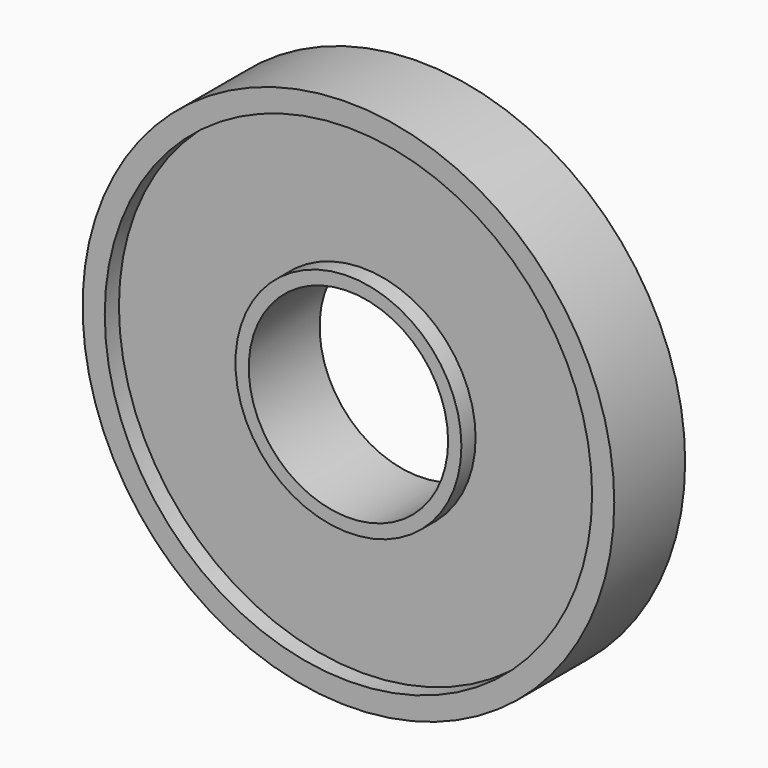
from build123d import *

# Parameters (mm, degrees)
F0_R      = 30
F1_DEPTH  = 10
F2_R      = 27.5
F3_DEPTH  = 2
F4_R      = 27.5
F5_DEPTH  = 2
F6_R      = 12.75
F7_DEPTH  = 2
F8_R      = 12.75
F9_DEPTH  = 2
F10_R     = 11.25
F11_DEPTH = 10.001


with BuildPart() as f1:
    # F0 (on Front) → F1 (new body)
    with BuildSketch(Plane.XZ):
        with Locations((-21.965394, 3.416839)):
            Circle(F0_R)
    extrude(amount=F1_DEPTH)

    # F2 (on face) → F3 (cut)
    with BuildSketch(Plane.XZ.offset(10)):
        with Locations((-21.965394, 3.416839)):
            Circle(F2_R)
    extrude(amount=-F3_DEPTH, mode=Mode.SUBTRACT)

    # F4 (on face) → F5 (cut)
    with BuildSketch(Plane(origin=(0, 0, 0), x_dir=(-1, 0, 0), z_dir=(0, 1, 0))):
        with Locations((21.965394, 3.416839)):
            Circle(F4_R)
    extrude(amount=-F5_DEPTH, mode=Mode.SUBTRACT)

    # F6 (on face) → F7 (join)
    with BuildSketch(Plane(origin=(0, -2, 0), x_dir=(-1, 0, 0), z_dir=(0, 1, 0))):
        with Locations((21.965394, 3.416839)):
            Circle(F6_R)
    extrude(amount=F7_DEPTH)

    # F8 (on face) → F9 (join)
    with BuildSketch(Plane.XZ.offset(8)):
        with Locations((-21.965394, 3.416839)):
            Circle(F8_R)
    extrude(amount=F9_DEPTH)

    # F10 (on face) → F11 (cut, through all)
    with BuildSketch(Plane.XZ.offset(10)):
        with Locations((-21.965394, 3.416839)):
            Circle(F10_R)
    extrude(amount=-F11_DEPTH, mode=Mode.SUBTRACT)


solid = f1.part
